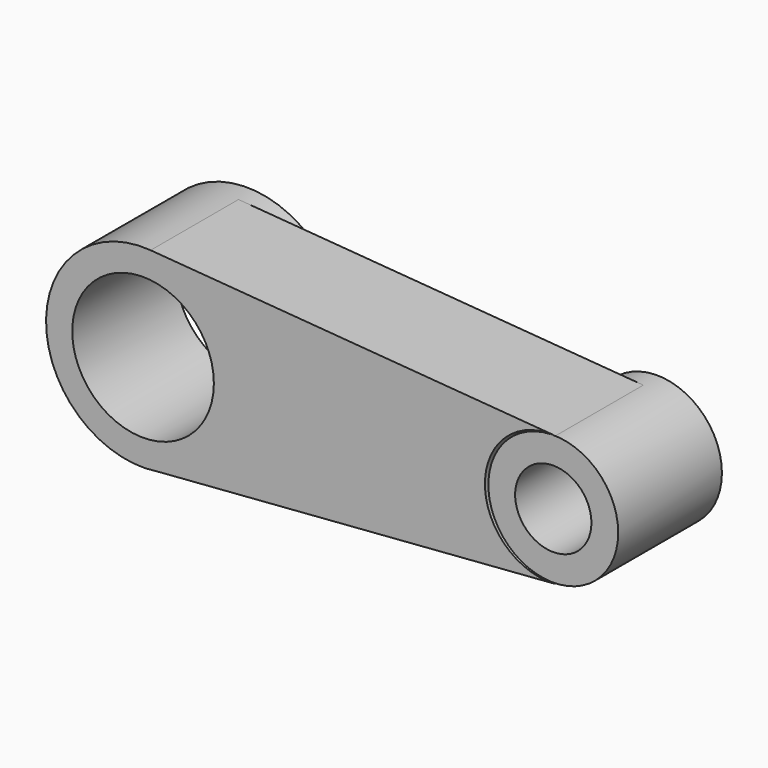
from build123d import *

# Parameters (mm, degrees)
F0_R     = 11.821944
F0_R_2   = 6.94471
F0_R_3   = 17.658473
F0_R_4   = 12.891963
F1_DEPTH = 23.6
F3_DEPTH = 20


with BuildPart() as f1:
    # F0 (on Front) → F1 (new body)
    with BuildSketch(Plane.XZ):
        with Locations((74.685596, 0)):
            Circle(F0_R)
        with Locations((74.685596, 0)):
            Circle(F0_R_2, mode=Mode.SUBTRACT)
        Circle(F0_R_3)
        Circle(F0_R_4, mode=Mode.SUBTRACT)
    extrude(amount=F1_DEPTH)

    # F2 (on face) → F3 (join)
    with BuildSketch(Plane.XZ.offset(23.6)):
        with BuildLine():
            ThreePointArc((74.908018, -11.929081), (62.24004, 0.036054), (75.076453, 11.820306))
            Line((75.076453, 11.820306), (1.381699, 17.604334))
            ThreePointArc((1.381699, 17.604334), (12.965731, 11.987973), (17.658473, 0))
            ThreePointArc((17.658473, 0), (13.402314, -11.497811), (2.685531, -17.453068))
            Line((2.685531, -17.453068), (74.908018, -11.929081))
        make_face()
    extrude(amount=-F3_DEPTH)


solid = f1.part
